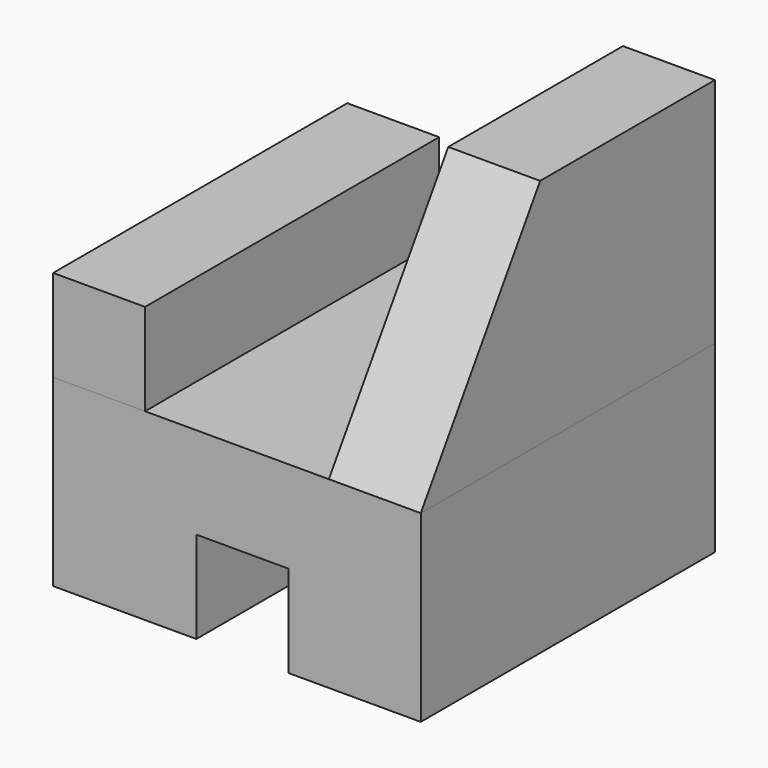
from build123d import *

# Parameters (mm, degrees)
F0_W     = 101.6
F0_H     = 50.8
F1_DEPTH = 101.6
F2_W     = 101.6
F2_H     = 25.4
F3_DEPTH = 25.4
F5_DEPTH = 25.4
F7_DEPTH = 101.6


with BuildPart() as f1:
    # F0 (on Right) → F1 (new body)
    with BuildSketch(Plane.YZ):
        with Locations((-14.246303, 25.4)):
            Rectangle(F0_W, F0_H)
    extrude(amount=F1_DEPTH)

    # F6 (on face) → F7 (cut)
    with BuildSketch(Plane.XZ.offset(65.046303)):
        Polygon((39.578289, 0), (50.8, 0), (64.978289, 0), (64.978289, 25.4), (39.578289, 25.4), align=None)
    extrude(amount=-F7_DEPTH, mode=Mode.SUBTRACT)


with BuildPart() as f3:
    # F2 (on face) → F3 (new body)
    with BuildSketch(Plane(origin=(0, 0, 0), x_dir=(0, -1, 0), z_dir=(-1, 0, 0))):
        with Locations((14.246303, 63.5)):
            Rectangle(F2_W, F2_H)
    extrude(amount=-F3_DEPTH)


with BuildPart() as f5:
    # F4 (on face) → F5 (new body)
    with BuildSketch(Plane.YZ.offset(101.6)):
        Polygon((-23.80142, 114.872612), (-65.046303, 50.8), (36.553697, 50.8), (36.553697, 114.872612), align=None)
    extrude(amount=-F5_DEPTH)


solid = Compound([f1.part, f3.part, f5.part])
